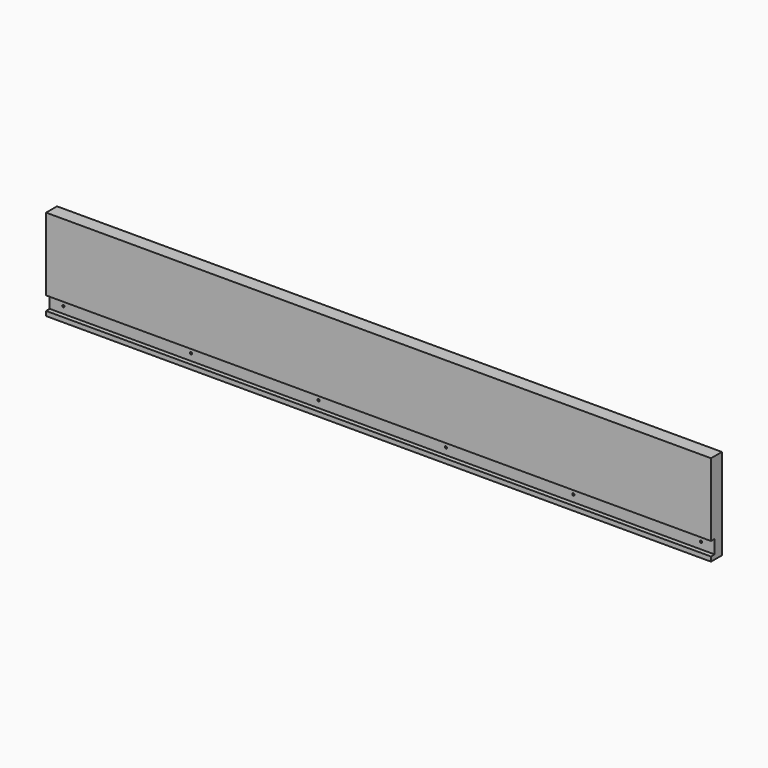
from build123d import *

# Parameters (mm, degrees)
F0_W     = 927.1
F0_H     = 127
F1_DEPTH = 19.05
F2_W     = 927.1
F2_H     = 19.05
F3_DEPTH = 6.35
F4_R     = 1.5875
F5_DEPTH = 19.051


with BuildPart() as f1:
    # F0 (on Front) → F1 (new body)
    with BuildSketch(Plane.XZ):
        with Locations((463.55, -63.5)):
            Rectangle(F0_W, F0_H)
    extrude(amount=-F1_DEPTH)

    # F2 (on Front) → F3 (cut)
    with BuildSketch(Plane.XZ):
        with Locations((463.55, -111.125)):
            Rectangle(F2_W, F2_H)
    extrude(amount=-F3_DEPTH, mode=Mode.SUBTRACT)

    # F4 (on Front) → F5 (cut, through all)
    with BuildSketch(Plane.XZ):
        with Locations((19.05, -111.125)):
            Circle(F4_R)
        with Locations((196.85, -111.125)):
            Circle(F4_R)
        with Locations((374.65, -111.125)):
            Circle(F4_R)
        with Locations((552.45, -111.125)):
            Circle(F4_R)
        with Locations((730.25, -111.125)):
            Circle(F4_R)
        with Locations((908.05, -111.125)):
            Circle(F4_R)
    extrude(amount=-F5_DEPTH, mode=Mode.SUBTRACT)


solid = f1.part
